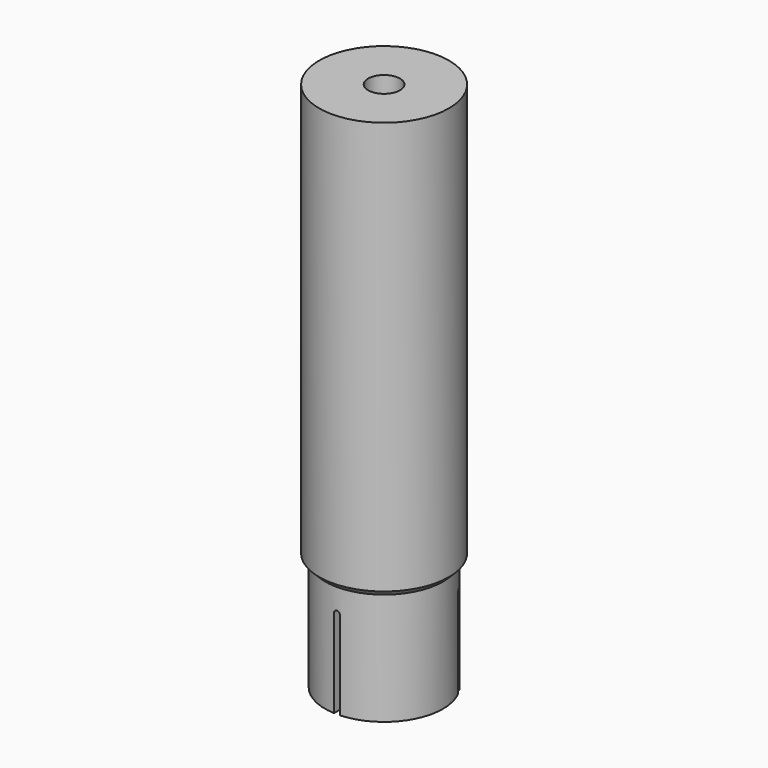
from build123d import *

# Parameters (mm, degrees)
POCKET_DEPTH       = 201.453094
POLARPATTERN_COUNT = 3


with BuildPart() as part:
    # Sketch → Revolution (revolve)
    with BuildSketch(Plane.XZ):
        Polygon((2.7, 70), (11, 70), (11, 0), (10, -1), (10, -20), (5.964154, -20), (2.7, -13), align=None)
    revolve(axis=Axis((0, 0, 0), (0, 0, 1)))

    # Sketch001 (on DatumPlane) → Pocket (cut, through all)
    with BuildSketch(Plane(origin=(0, 0, -20), x_dir=(1, 0, 0), z_dir=(0, 1, 0))):
        with BuildLine():
            Line((0.5, -15), (0.5, 20))
            Line((0.5, 20), (-0.5, 20))
            Line((-0.5, 20), (-0.5, -15))
            ThreePointArc((-0.5, -15), (0, -15.5), (0.5, -15))
        make_face()
    pocket = extrude(amount=-POCKET_DEPTH, mode=Mode.SUBTRACT)

    # PolarPattern: Pocket ×3 about axis
    polarpattern_axis = Axis((0, 0, 0), (0, 0, 1))
    for i in range(1, POLARPATTERN_COUNT):
        add(pocket.rotate(polarpattern_axis, i * 360 / POLARPATTERN_COUNT), mode=Mode.SUBTRACT)


solid = part.part
